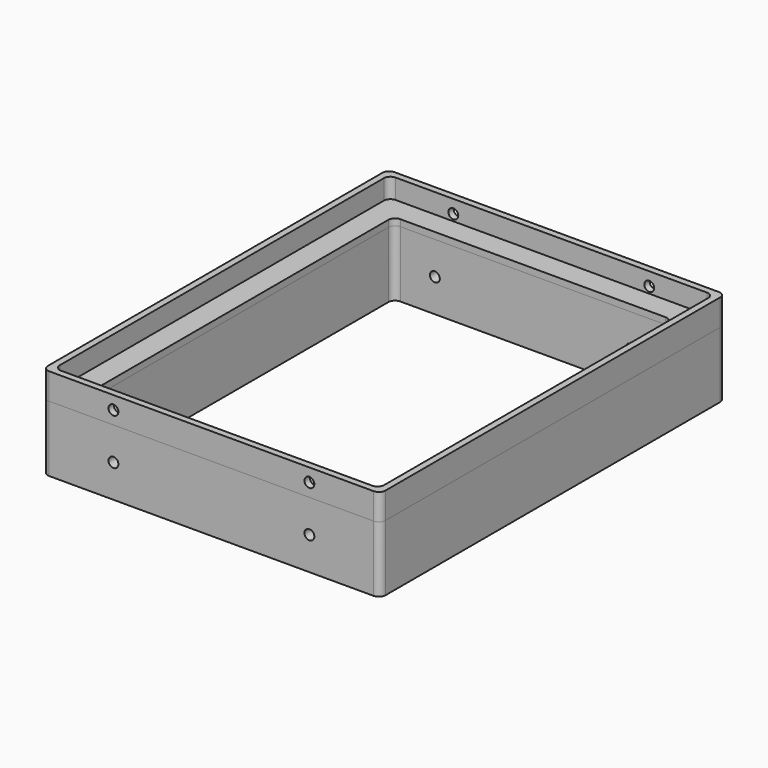
from build123d import *

# Parameters (mm, degrees)
F1_DEPTH  = 6
F3_DEPTH  = 2
F4_R      = 1.5
F6_DEPTH  = 2
F5_R      = 1.5
F7_DEPTH  = 2
F8_DEPTH  = 20
F9_R      = 1.5
F10_DEPTH = 135


with BuildPart() as f1:
    # F0 (on Top) → F1 (new body)
    with BuildSketch(Plane.XY):
        with BuildLine():
            Line((48.0444741547, 63.2635615916), (-50.4555258453, 63.2635615916))
            ThreePointArc((-50.4555258453, 63.2635615916), (-51.8697394077, 62.677775154), (-52.4555258453, 61.2635615916))
            Line((-52.4555258453, 61.2635615916), (-52.4555258453, -65.7364384084))
            ThreePointArc((-52.4555258453, -65.7364384084), (-51.8697394077, -67.1506519707), (-50.4555258453, -67.7364384084))
            Line((-50.4555258453, -67.7364384084), (48.0444741547, -67.7364384084))
            ThreePointArc((48.0444741547, -67.7364384084), (49.4586877171, -67.1506519707), (50.0444741547, -65.7364384084))
            Line((50.0444741547, -65.7364384084), (50.0444741547, 61.2635615916))
            ThreePointArc((50.0444741547, 61.2635615916), (49.4586877171, 62.677775154), (48.0444741547, 63.2635615916))
        make_face()
        with BuildLine():
            ThreePointArc((-50.4555258453, 59.2635615916), (-49.8697394077, 60.677775154), (-48.4555258453, 61.2635615916))
            Line((-48.4555258453, 61.2635615916), (46.0444741547, 61.2635615916))
            ThreePointArc((46.0444741547, 61.2635615916), (47.4586877171, 60.677775154), (48.0444741547, 59.2635615916))
            Line((48.0444741547, 59.2635615916), (48.0444741547, -63.7364384084))
            ThreePointArc((48.0444741547, -63.7364384084), (47.4586877171, -65.1506519707), (46.0444741547, -65.7364384084))
            Line((46.0444741547, -65.7364384084), (-48.4555258453, -65.7364384084))
            ThreePointArc((-48.4555258453, -65.7364384084), (-49.8697394077, -65.1506519707), (-50.4555258453, -63.7364384084))
            Line((-50.4555258453, -63.7364384084), (-50.4555258453, 59.2635615916))
        make_face(mode=Mode.SUBTRACT)
    extrude(amount=F1_DEPTH)

    # F2 (on Top) → F3 (join)
    with BuildSketch(Plane.XY):
        with BuildLine():
            Line((48.0444741547, 63.2635615916), (-50.4555258453, 63.2635615916))
            ThreePointArc((-50.4555258453, 63.2635615916), (-51.8697394077, 62.677775154), (-52.4555258453, 61.2635615916))
            Line((-52.4555258453, 61.2635615916), (-52.4555258453, -65.7364384084))
            ThreePointArc((-52.4555258453, -65.7364384084), (-51.8697394077, -67.1506519707), (-50.4555258453, -67.7364384084))
            Line((-50.4555258453, -67.7364384084), (48.0444741547, -67.7364384084))
            ThreePointArc((48.0444741547, -67.7364384084), (49.4586877171, -67.1506519707), (50.0444741547, -65.7364384084))
            Line((50.0444741547, -65.7364384084), (50.0444741547, 61.2635615916))
            ThreePointArc((50.0444741547, 61.2635615916), (49.4586877171, 62.677775154), (48.0444741547, 63.2635615916))
        make_face()
        with BuildLine():
            ThreePointArc((-43.4555258453, 52.2635615916), (-42.8697394077, 53.677775154), (-41.4555258453, 54.2635615916))
            Line((-41.4555258453, 54.2635615916), (39.0444741547, 54.2635615916))
            ThreePointArc((39.0444741547, 54.2635615916), (40.4586877171, 53.677775154), (41.0444741547, 52.2635615916))
            Line((41.0444741547, 52.2635615916), (41.0444741547, -56.7364384084))
            ThreePointArc((41.0444741547, -56.7364384084), (40.4586877171, -58.1506519707), (39.0444741547, -58.7364384084))
            Line((39.0444741547, -58.7364384084), (-41.4555258453, -58.7364384084))
            ThreePointArc((-41.4555258453, -58.7364384084), (-42.8697394077, -58.1506519707), (-43.4555258453, -56.7364384084))
            Line((-43.4555258453, -56.7364384084), (-43.4555258453, 52.2635615916))
        make_face(mode=Mode.SUBTRACT)
    extrude(amount=-F3_DEPTH)

    # F4 (on face) → F6 (cut)
    with BuildSketch(Plane.XZ.offset(67.7364384084)):
        with Locations((28.5444741547, 2)):
            Circle(F4_R)
        with Locations((-30.9555258453, 2)):
            Circle(F4_R)
    extrude(amount=-F6_DEPTH, mode=Mode.SUBTRACT)

    # F5 (on face) → F7 (cut)
    with BuildSketch(Plane(origin=(0, 63.2635615916, 0), x_dir=(-1, 0, 0), z_dir=(0, 1, 0))):
        with Locations((-28.5444741547, 2)):
            Circle(F5_R)
        with Locations((30.9555258453, 2)):
            Circle(F5_R)
    extrude(amount=-F7_DEPTH, mode=Mode.SUBTRACT)


with BuildPart() as f8:
    # F8 (new): a face of the model
    f8_faces = [f1.part.faces().sort_by_distance(p)[0] for p in [
        (-1.2055258453, 61.6002140633, -2),
    ]]
    extrude(f8_faces, amount=F8_DEPTH)

    # F9 (on face) → F10 (cut)
    with BuildSketch(Plane.XZ.offset(67.7364384084)):
        with Locations((28.5444741547, -12)):
            Circle(F9_R)
        with Locations((-30.9555258453, -12)):
            Circle(F9_R)
    extrude(amount=-F10_DEPTH, mode=Mode.SUBTRACT)


solid = Compound([f1.part, f8.part])
